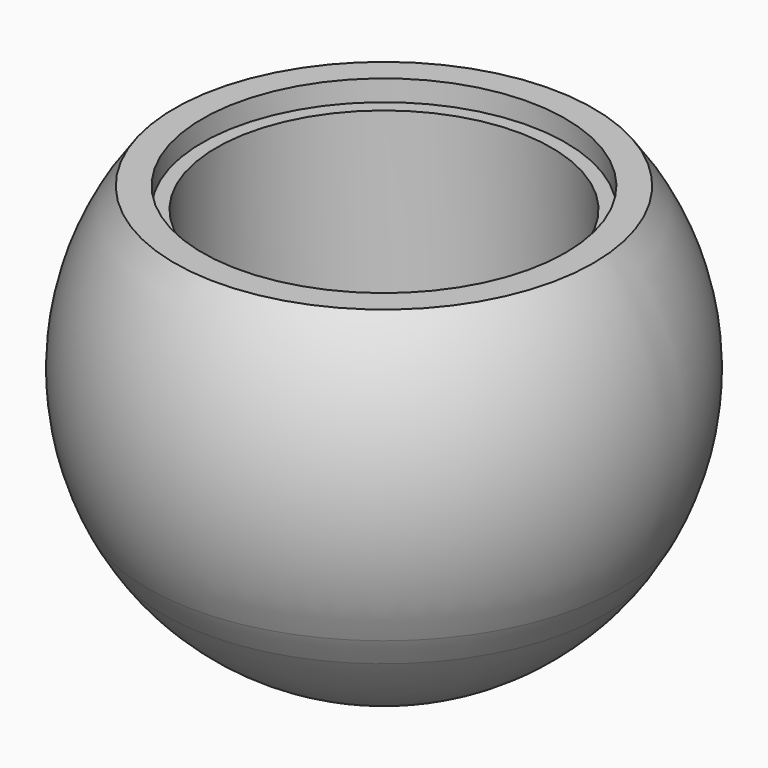
from build123d import *


with BuildPart() as f1:
    # F0 (on Front) → F1 (revolve)
    with BuildSketch(Plane.XZ):
        with BuildLine():
            Line((30, 23), (26, 23))
            Line((26, 23), (26, 20))
            Line((26, 20), (24, 20))
            Line((24, 20), (24, -11.03716))
            Line((24, -11.03716), (24, -16.546911))
            Line((24, -16.546911), (24, -18.729299))
            Line((24, -18.729299), (0, -18.901058))
            Line((0, -18.901058), (0, -37.802116))
            ThreePointArc((0, -37.802116), (17.890361, -33.300675), (31.519987, -20.868408))
            ThreePointArc((31.519987, -20.868408), (32.775592, -18.835089), (33.900211, -16.726496))
            ThreePointArc((33.900211, -16.726496), (37.621242, 3.693525), (30, 23))
        make_face()
    revolve(axis=Axis((0, 0, 35.521735), (0, 0, -1)))


solid = f1.part
